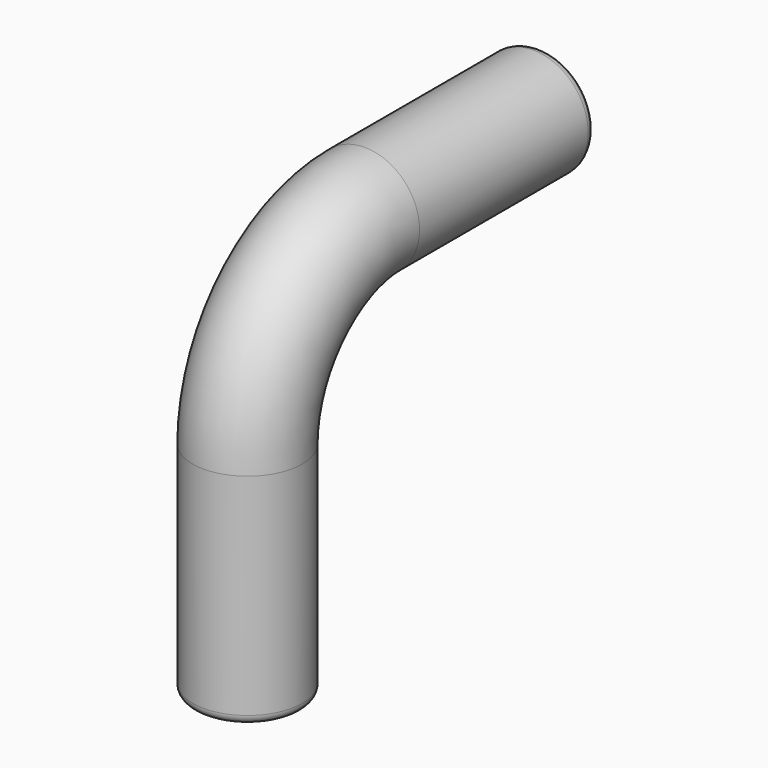
from build123d import *

# Parameters (mm, degrees)
F1_R = 7.4730699925
F3_R = 1.27


with BuildPart() as f2:
    # F2: sweep along a path in F0
    with BuildLine(Plane.YZ) as f2_path:
        Line((0, 0), (0, 30))
        ThreePointArc((0, 30), (5.8578643763, 44.1421356237), (20, 50))
        Line((20, 50), (50, 50))
    # F1 (on Top) → F2 (sweep)
    with BuildSketch(Plane.XY):
        Circle(F1_R)
    sweep(path=f2_path.line)

    # F3
    f3_edges = [f2.edges().sort_by_distance(p)[0] for p in [
        (-7.47307, 50, 50),
        (-7.47307, 0, 0),
    ]]
    fillet(f3_edges, radius=F3_R)


solid = f2.part
